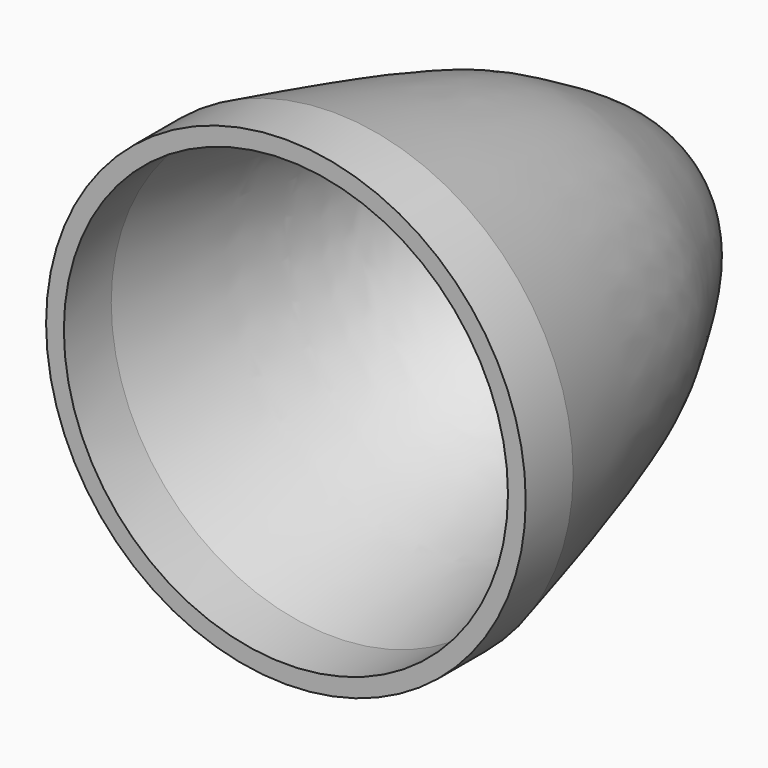
from build123d import *


with BuildPart() as part:
    # Sketch → Revolution (revolve)
    with BuildSketch(Plane.XY):
        with BuildLine():
            Line((37.5, 50), (37.5, 60))
            add(Edge.make_bspline(
                [(37.5, 60), (30.537325, 94.158652), (24.718813, 104.103494), (12.651008, 126.122638), (0, 127)],
                knots=[0, 0, 0, 0, 0.5, 1, 1, 1, 1], degree=3))
            Line((0, 127), (0, 130))
            add(Edge.make_bspline(
                [(40.5, 60), (31.5, 97), (25.5, 107), (13.5, 129), (0, 130), (0, 130)],
                knots=[0, 0, 0, 0, 0.333333, 0.666667, 1, 1, 1, 1], degree=3))
            Line((40.5, 60), (40.5, 50))
            Line((40.5, 50), (37.5, 50))
        make_face()
    revolve(axis=Axis((0, 0, 0), (0, 1, 0)))


solid = part.part
